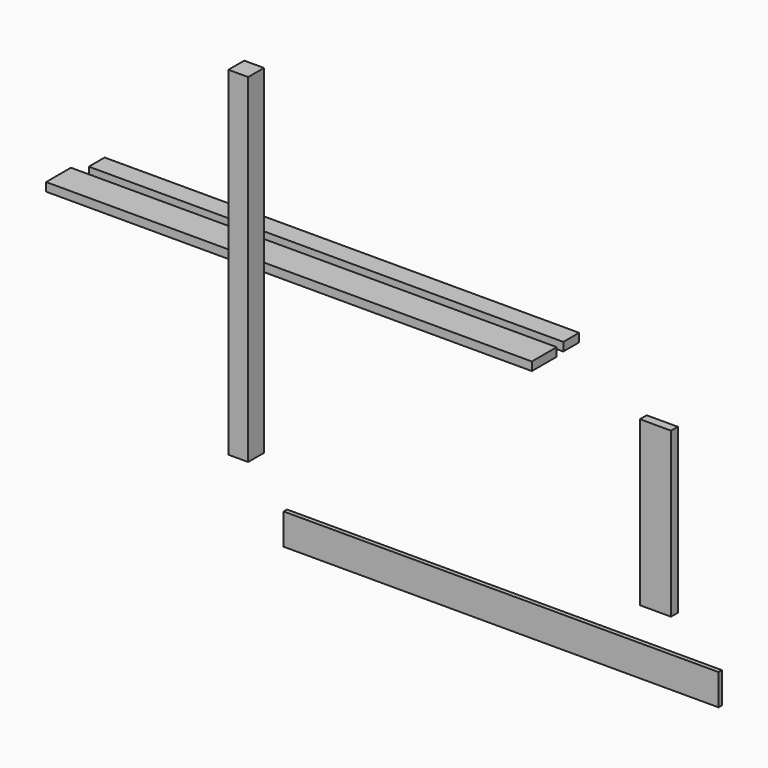
from build123d import *

# Parameters (mm, degrees)
F0_W     = 88.9
F0_H     = 1524
F1_DEPTH = 88.9
F2_W     = 2133.6
F2_H     = 88.9
F3_DEPTH = 38.1
F4_W     = 2184.4
F4_H     = 139.7
F5_DEPTH = 38.1
F6_W     = 1955.8
F6_H     = 139.7
F7_DEPTH = 19.05
F8_W     = 139.7
F8_H     = 736.6
F9_DEPTH = 38.1


with BuildPart() as f1:
    # F0 (on Front) → F1 (new body)
    with BuildSketch(Plane.XZ):
        with Locations((-957.834118, 93.850595)):
            Rectangle(F0_W, F0_H)
    extrude(amount=F1_DEPTH)


with BuildPart() as f3:
    # F2 (on Top) → F3 (new body)
    with BuildSketch(Plane.XY):
        with Locations((-839.272805, 300.724819)):
            Rectangle(F2_W, F2_H)
    extrude(amount=F3_DEPTH)


with BuildPart() as f5:
    # F4 (on Top) → F5 (new body)
    with BuildSketch(Plane.XY):
        with Locations((-857.875059, 140.886257)):
            Rectangle(F4_W, F4_H)
    extrude(amount=F5_DEPTH)


with BuildPart() as f7:
    # F6 (on Front) → F7 (new body)
    with BuildSketch(Plane.XZ):
        with Locations((167.944855, -928.322224)):
            Rectangle(F6_W, F6_H)
    extrude(amount=F7_DEPTH)


with BuildPart() as f9:
    # F8 (on Front) → F9 (new body)
    with BuildSketch(Plane.XZ):
        with Locations((877.399293, -327.792069)):
            Rectangle(F8_W, F8_H)
    extrude(amount=F9_DEPTH)


solid = Compound([f1.part, f3.part, f5.part, f7.part, f9.part])
